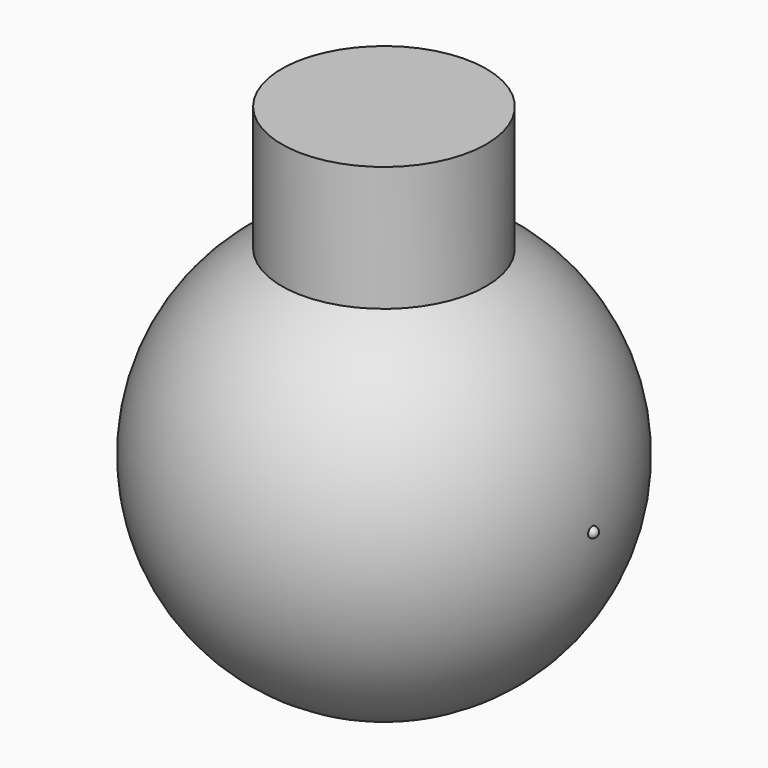
from build123d import *

# Parameters (mm, degrees)
F0_R     = 12.7
F2_DEPTH = 38.1


with BuildPart() as f2:
    # F0 (on Top) → F2 (new body)
    with BuildSketch(Plane.XY):
        Circle(F0_R)
    extrude(amount=F2_DEPTH)

    # F1 (on Front) → F3 (revolve)
    with BuildSketch(Plane.XZ):
        with BuildLine():
            Line((0, 25.908), (0, -25.908))
            ThreePointArc((0, -25.908), (25.908, 0), (0, 25.908))
        make_face()
    revolve(axis=Axis((0, 0, 0), (0, 0, -1)))


with BuildPart() as f5:
    # F4 (on Front) → F5 (revolve)
    with BuildSketch(Plane.XZ):
        with BuildLine():
            Line((25.9002545973, 0.6349675364), (25.9130963692, -0.6349675364))
            ThreePointArc((25.9130963692, -0.6349675364), (26.5416430196, 0.0064208859), (25.9002545973, 0.6349675364))
        make_face()
    revolve(axis=Axis((25.9066754833, 0, 0), (0.0101116314, 0, -0.9999488761)))


solid = Compound([f2.part, f5.part])
